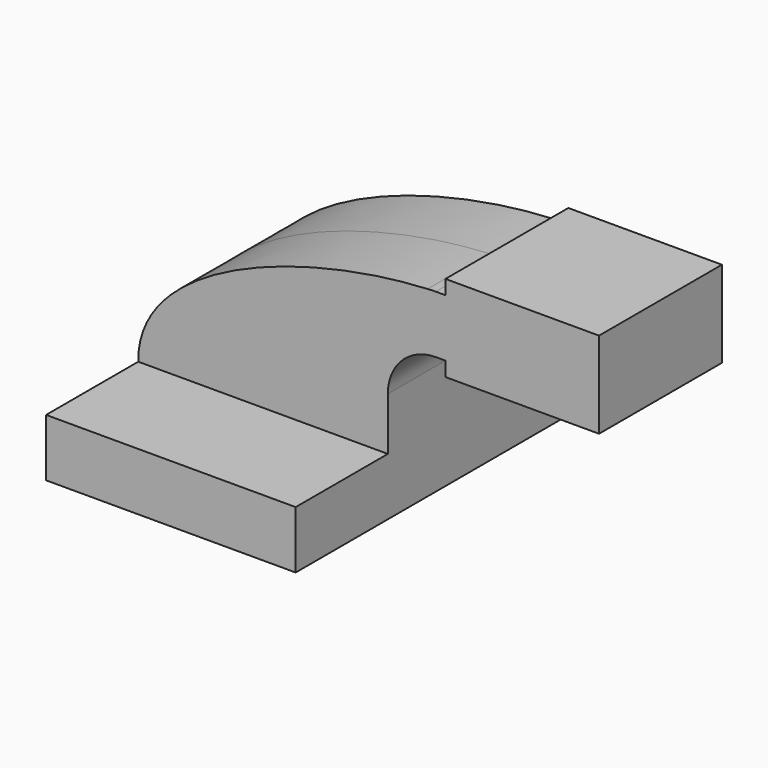
from build123d import *

# Parameters (mm, degrees)
F1_DEPTH      = 63.5
F1_DEPTH_BACK = 63.5
F2_DEPTH      = 25.4
F2_DEPTH_BACK = 25.4


with BuildPart() as f1:
    # F0 (on Front) → F1 (new body, two sides)
    with BuildSketch(Plane.XZ) as f1_sk:
        Polygon((22.225, 9.525), (-41.275, 9.525), (-41.275, -9.525), (41.275, -9.525), (41.275, 9.525), align=None)
    extrude(amount=F1_DEPTH)
    extrude(f1_sk.sketch, amount=-F1_DEPTH_BACK)

    # F0 (on Front) → F2 (join, two sides)
    with BuildSketch(Plane.XZ) as f2_sk:
        with BuildLine():
            add(Edge.make_bspline(
                [(-41.275, 9.525), (-41.742126, 41.56425), (15.092076, 59.914584), (54.425786, 61.818791)],
                knots=[0, 0, 0, 0, 108.961729, 108.961729, 108.961729, 108.961729], degree=3))
            Line((-41.275, 9.525), (22.225, 9.525))
            Line((22.225, 9.525), (22.225, 27.0002))
            ThreePointArc((22.225, 27.0002), (31.509224, 50.713197), (54.425786, 61.818791))
        make_face()
        Polygon((22.225, 9.525), (-41.275, 9.525), (-41.275, -9.525), (41.275, -9.525), (41.275, 9.525), align=None)
        with BuildLine():
            Line((22.225, 27.0002), (22.225, 9.525))
            Line((22.225, 9.525), (41.275, 9.525))
            Line((41.275, 9.525), (41.275, 27.0002))
            ThreePointArc((41.275, 27.0002), (45.92468, 38.22552), (57.15, 42.8752))
            Line((57.15, 42.8752), (60.325, 42.8752))
            Line((60.325, 42.8752), (60.325, 61.9252))
            Line((60.325, 61.9252), (57.15, 61.9252))
            add(Edge.make_bspline(
                [(54.425786, 61.818791), (55.343705, 61.863229), (56.252093, 61.89871), (57.15, 61.9252)],
                knots=[108.961729, 108.961729, 108.961729, 108.961729, 111.504536, 111.504536, 111.504536, 111.504536], degree=3))
            ThreePointArc((54.425786, 61.818791), (31.509224, 50.713197), (22.225, 27.0002))
        make_face()
        with BuildLine():
            ThreePointArc((57.15, 61.9252), (55.786854, 61.898588), (54.425786, 61.818791))
            add(Edge.make_bspline(
                [(54.425786, 61.818791), (55.343705, 61.863229), (56.252093, 61.89871), (57.15, 61.9252)],
                knots=[108.961729, 108.961729, 108.961729, 108.961729, 111.504536, 111.504536, 111.504536, 111.504536], degree=3))
        make_face()
        Polygon((60.325, 66.675), (60.325, 61.9252), (60.325, 42.8752), (60.325, 38.1), (85.725, 38.1), (85.615962, 66.675), align=None)
        Polygon((111.125, 66.675), (85.615962, 66.675), (85.725, 38.1), (111.125, 38.1), align=None)
    extrude(amount=F2_DEPTH)
    extrude(f2_sk.sketch, amount=-F2_DEPTH_BACK)


solid = f1.part
